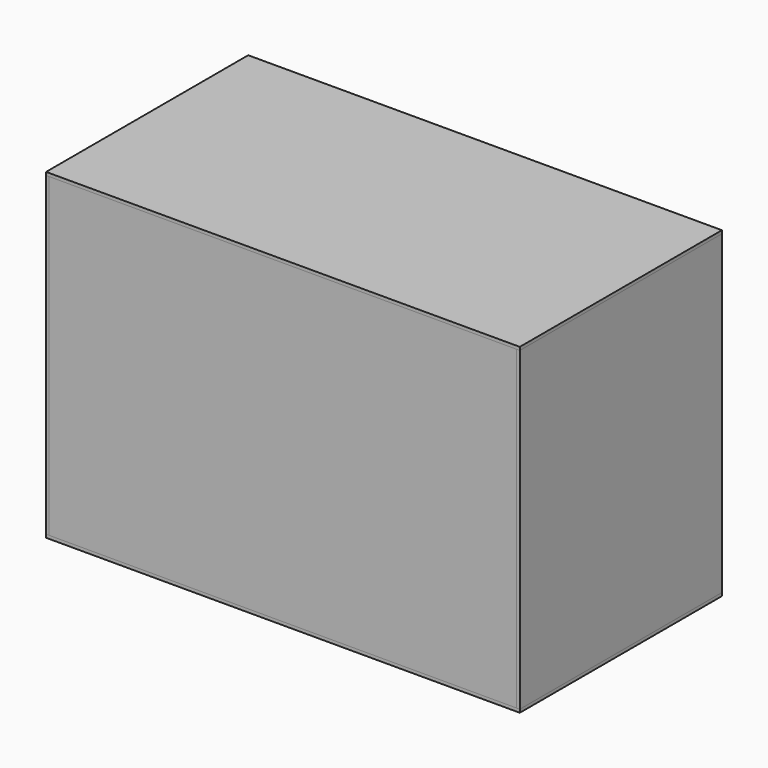
from build123d import *

# Parameters (mm, degrees)
F0_W      = 300
F0_H      = 160
F1_DEPTH  = 2
F2_W      = 2
F2_H      = 160
F3_DEPTH  = 200
F4_W      = 2
F4_H      = 160
F5_DEPTH  = 200
F6_W      = 300
F6_H      = 160
F7_DEPTH  = 2
F8_W      = 296
F8_H      = 2
F9_DEPTH  = 200
F11_W     = 300
F11_H     = 160
F12_DEPTH = 2


with BuildPart() as f1:
    # F0 (on Top) → F1 (new body)
    with BuildSketch(Plane.XY):
        Rectangle(F0_W, F0_H)
    extrude(amount=F1_DEPTH)


with BuildPart() as f3:
    # F2 (on face) → F3 (new body)
    with BuildSketch(Plane.XY.offset(2)):
        with Locations((-149, 0)):
            Rectangle(F2_W, F2_H)
    extrude(amount=F3_DEPTH)


with BuildPart() as f5:
    # F4 (on face) → F5 (new body)
    with BuildSketch(Plane.XY.offset(2)):
        with Locations((149, 0)):
            Rectangle(F4_W, F4_H)
    extrude(amount=F5_DEPTH)


with BuildPart() as f7:
    # F6 (on face) → F7 (new body)
    with BuildSketch(Plane.XY.offset(202)):
        Rectangle(F6_W, F6_H)
    extrude(amount=F7_DEPTH)


with BuildPart() as f9:
    # F8 (on face) → F9 (new body)
    with BuildSketch(Plane.XY.offset(2)):
        with Locations((0, -79)):
            Rectangle(F8_W, F8_H)
    extrude(amount=F9_DEPTH)


with BuildPart() as f10_1:
    # F10: instance of F9
    add(f9.part.mirror(Plane.XZ))


with BuildPart() as f12:
    # F11 (on face) → F12 (new body)
    with BuildSketch(Plane.XY.offset(202)):
        Rectangle(F11_W, F11_H)
    extrude(amount=F12_DEPTH)


solid = Compound([f1.part, f3.part, f5.part, f7.part, f9.part, f10_1.part, f12.part])
